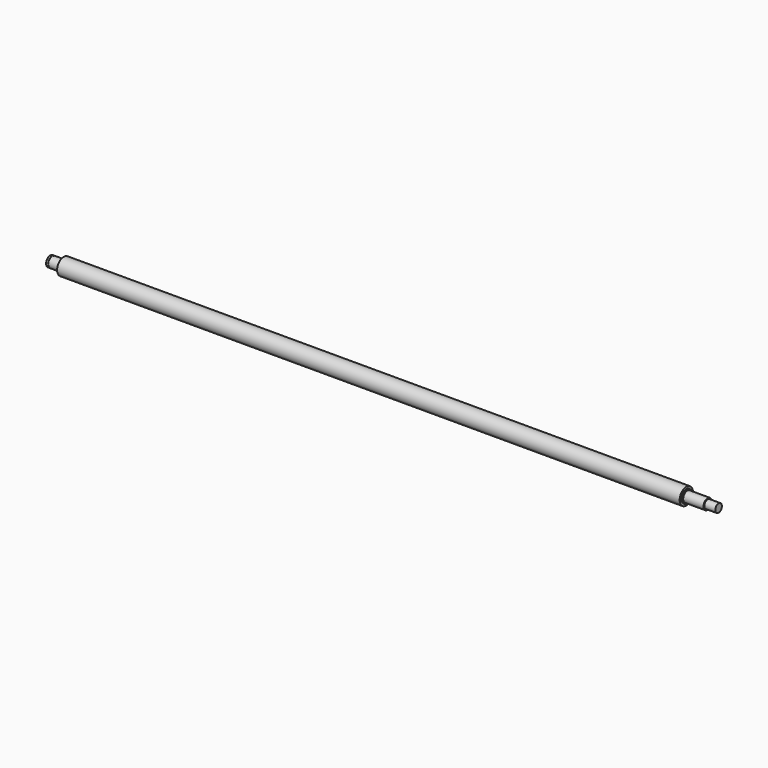
from build123d import *


with BuildPart() as f1:
    # F0 (on Front) → F1 (revolve)
    with BuildSketch(Plane.XZ):
        Polygon((-313, 5), (-313, 0), (329, 0), (329, 4), (318.5, 4), (318.5, 5), (299, 5), (299, 6), (298, 6), (298, 8), (-300, 8), (-300, 6), (-301, 6), (-301, 5), (-310.6, 5), (-310.6, 4.8), (-311.1, 4.8), (-311.1, 5), align=None)
    revolve(axis=Axis((8, 0, 0), (1, 0, 0)))


solid = f1.part
